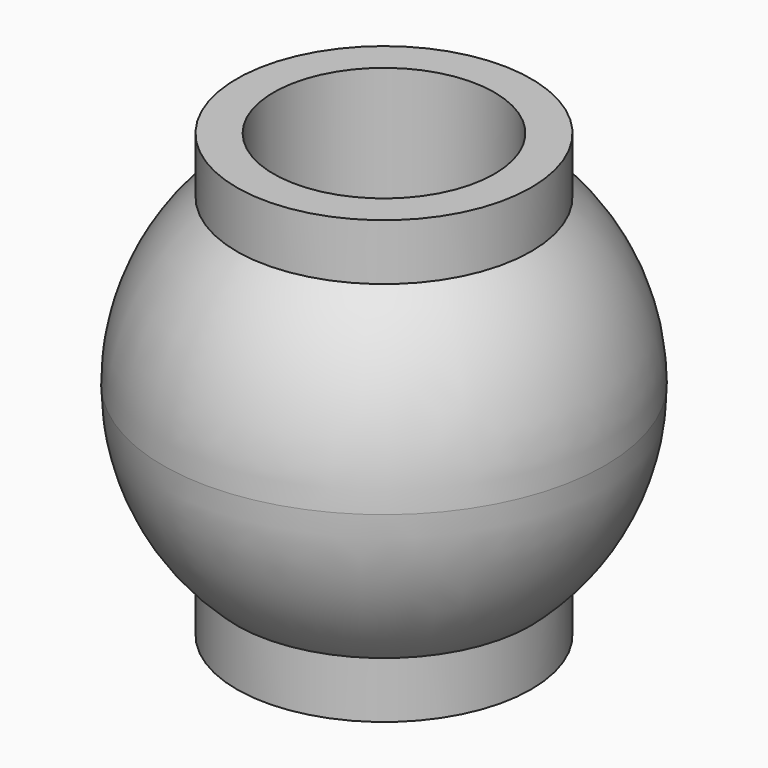
from build123d import *


with BuildPart() as f1:
    # F0 (on Front) → F1 (revolve)
    with BuildSketch(Plane.XZ):
        with BuildLine():
            Line((9.525, 19.05), (9.525, 0))
            Line((9.525, 0), (9.525, -19.05))
            Line((9.525, -19.05), (12.7, -19.05))
            Line((12.7, -19.05), (12.7, -14.199032))
            ThreePointArc((12.7, -14.199032), (17.390191, -7.77713), (19.05, 0))
            ThreePointArc((19.05, 0), (17.390191, 7.77713), (12.7, 14.199032))
            Line((12.7, 14.199032), (12.7, 19.05))
            Line((12.7, 19.05), (9.525, 19.05))
        make_face()
    revolve(axis=Axis((0, 0, 9.525), (0, 0, 1)))


solid = f1.part
